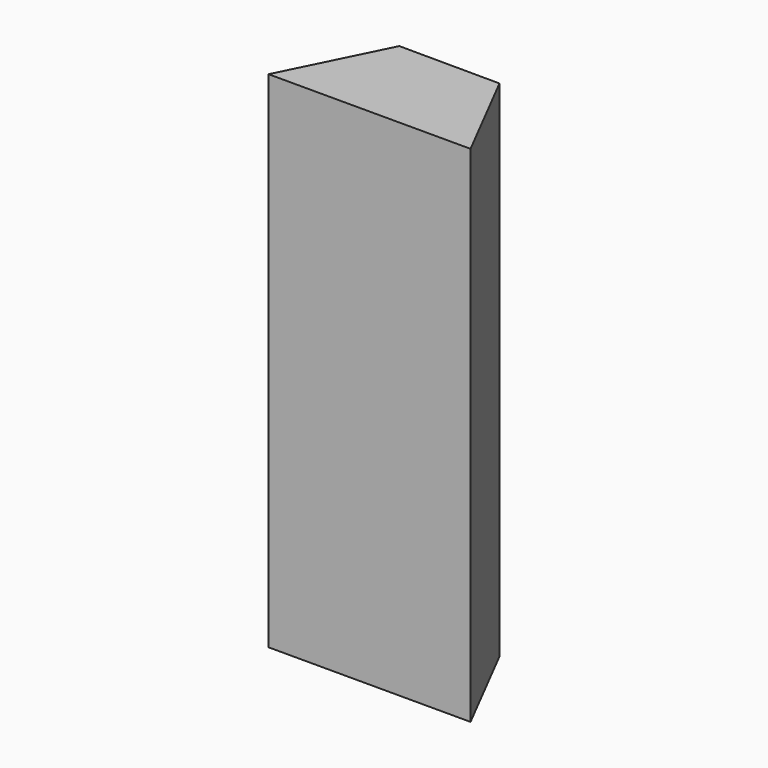
from build123d import *

# Parameters (mm, degrees)
PAD_DEPTH = 100


with BuildPart() as part:
    # Sketch → Pad (new body)
    with BuildSketch(Plane.XY):
        Polygon((-19.911085, 0), (20.124477, 0), (9.931939, 19.913408), (-9.99402, 20.005232), align=None)
    extrude(amount=PAD_DEPTH)


solid = part.part
